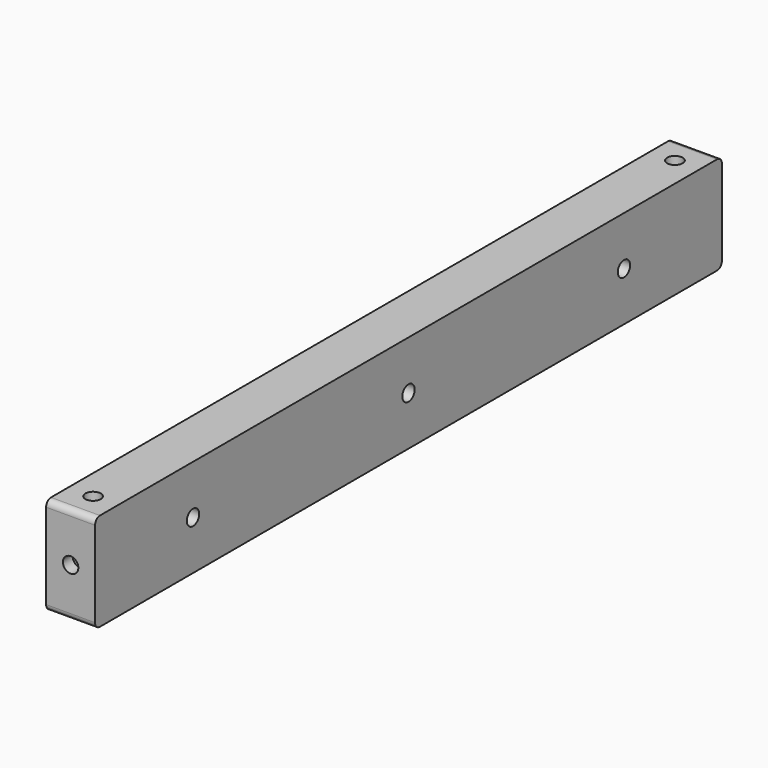
from build123d import *

# Parameters (mm, degrees)
F0_R     = 4
F1_DEPTH = 25.4
F2_R     = 4
F3_DEPTH = 6.35
F4_R     = 4
F5_DEPTH = 6.35
F6_R     = 4
F7_DEPTH = 6.35
F8_R     = 4
F9_DEPTH = 6.35


with BuildPart() as f1:
    # F0 (on Right) → F1 (new body)
    with BuildSketch(Plane.YZ):
        with BuildLine():
            ThreePointArc((203.2, 22.225), (202.270064, 24.470064), (200.025, 25.4))
            Line((200.025, 25.4), (-200.025, 25.4))
            ThreePointArc((-200.025, 25.4), (-202.270064, 24.470064), (-203.2, 22.225))
            Line((-203.2, 22.225), (-203.2, -22.225))
            ThreePointArc((-203.2, -22.225), (-202.270064, -24.470064), (-200.025, -25.4))
            Line((-200.025, -25.4), (200.025, -25.4))
            ThreePointArc((200.025, -25.4), (202.270064, -24.470064), (203.2, -22.225))
            Line((203.2, -22.225), (203.2, 22.225))
        make_face()
        with Locations((-139.7, 0)):
            Circle(F0_R, mode=Mode.SUBTRACT)
        Circle(F0_R, mode=Mode.SUBTRACT)
        with Locations((139.7, 0)):
            Circle(F0_R, mode=Mode.SUBTRACT)
    extrude(amount=F1_DEPTH)

    # F2 (on face) → F3 (cut)
    with BuildSketch(Plane.XZ.offset(203.2)):
        with Locations((12.734205, 0)):
            Circle(F2_R)
    extrude(amount=-F3_DEPTH, mode=Mode.SUBTRACT)

    # F4 (on face) → F5 (cut)
    with BuildSketch(Plane(origin=(0, 203.2, 0), x_dir=(-1, 0, 0), z_dir=(0, 1, 0))):
        with Locations((-12.224027, 0)):
            Circle(F4_R)
    extrude(amount=-F5_DEPTH, mode=Mode.SUBTRACT)

    # F6 (on face) → F7 (cut)
    with BuildSketch(Plane.XY.offset(25.4)):
        with Locations((12.7, -188.595)):
            Circle(F6_R)
    extrude(amount=-F7_DEPTH, mode=Mode.SUBTRACT)

    # F8 (on face) → F9 (cut)
    with BuildSketch(Plane.XY.offset(25.4)):
        with Locations((12.7, 188.595)):
            Circle(F8_R)
    extrude(amount=-F9_DEPTH, mode=Mode.SUBTRACT)


solid = f1.part
